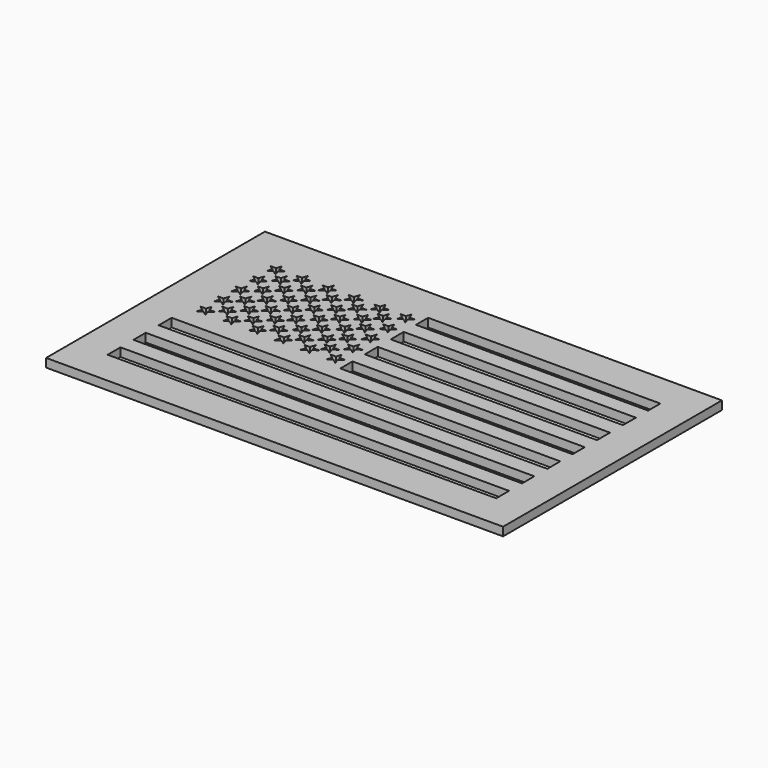
from build123d import *

# Parameters (mm, degrees)
F0_W     = 169.7359979987
F0_H     = 101.6
F0_W_2   = 144.3359979987
F0_H_2   = 6.0225296766
F0_H_3   = 6.0199387372
F0_W_3   = 86.2517495871
F0_H_4   = 6.0199424624
F0_H_5   = 5.6917965412
F0_H_6   = 5.6854970753
F1_DEPTH = 3.175


with BuildPart() as f1:
    # F0 (on Top) → F1 (new body)
    with BuildSketch(Plane.XY):
        with Locations((84.8679989994, 50.8)):
            Rectangle(F0_W, F0_H)
        Polygon((12.7, 48.1244623661), (12.7, 88.9), (70.7842484117, 88.9), (157.0359979987, 88.9), (157.0359979987, 83.2384750247), (157.0359979987, 77.5466784835), (157.0359979987, 71.5267434716), (157.0359979987, 65.5068010092), (157.0359979987, 59.4868659973), (157.0359979987, 53.801368922), (157.0359979987, 48.1244623661), (157.0359979987, 42.4303784966), (157.0359979987, 36.4104434848), (157.0359979987, 30.3905047476), (157.0359979987, 24.6904194355), (157.0359979987, 18.6678897589), (157.0359979987, 12.7), (12.7, 12.7), (12.7, 18.6678897589), (12.7, 24.6904194355), (12.7, 30.3905047476), (12.7, 36.4104434848), (12.7, 42.4303784966), align=None, mode=Mode.SUBTRACT)
        Polygon((70.7842484117, 88.9), (12.7, 88.9), (12.7, 48.1244623661), (70.7842484117, 48.1244623661), (70.7842484117, 53.801368922), (70.7842484117, 59.4868659973), (70.7842484117, 65.5068010092), (70.7842484117, 71.5267434716), (70.7842484117, 77.5466784835), (70.7842484117, 83.2384750247), align=None)
        Polygon((17.5041054734, 55.1749249192), (18.1522244246, 53.1802198928), (20.2495814084, 53.1802198928), (18.5527839653, 51.947424389), (19.2009029165, 49.9527193626), (17.5041054734, 51.1855148665), (15.8073080303, 49.9527193626), (16.4554269815, 51.947424389), (14.7586295384, 53.1802198928), (16.8559865221, 53.1802198928), align=None, mode=Mode.SUBTRACT)
        Polygon((17.5041054734, 63.3029249192), (18.1522244246, 61.3082198928), (20.2495814084, 61.3082198928), (18.5527839653, 60.075424389), (19.2009029165, 58.0807193626), (17.5041054734, 59.3135148665), (15.8073080303, 58.0807193626), (16.4554269815, 60.075424389), (14.7586295384, 61.3082198928), (16.8559865221, 61.3082198928), align=None, mode=Mode.SUBTRACT)
        Polygon((27.1561054734, 55.1749249192), (27.8042244246, 53.1802198928), (29.9015814084, 53.1802198928), (28.2047839653, 51.947424389), (28.8529029165, 49.9527193626), (27.1561054734, 51.1855148665), (25.4593080303, 49.9527193626), (26.1074269815, 51.947424389), (24.4106295384, 53.1802198928), (26.5079865221, 53.1802198928), align=None, mode=Mode.SUBTRACT)
        Polygon((23.1209494405, 57.0659481571), (25.2183064243, 57.0659481571), (23.5215089812, 55.8331526532), (24.1696279324, 53.8384476268), (22.4728304893, 55.0712431307), (20.7760330461, 53.8384476268), (21.4241519974, 55.8331526532), (19.7273545543, 57.0659481571), (21.824711538, 57.0659481571), (22.4728304893, 59.0606531835), align=None, mode=Mode.SUBTRACT)
        Polygon((36.8081054734, 55.1749249192), (37.4562244246, 53.1802198928), (39.5535814084, 53.1802198928), (37.8567839653, 51.947424389), (38.5049029165, 49.9527193626), (36.8081054734, 51.1855148665), (35.1113080303, 49.9527193626), (35.7594269815, 51.947424389), (34.0626295384, 53.1802198928), (36.1599865221, 53.1802198928), align=None, mode=Mode.SUBTRACT)
        Polygon((32.6205494405, 57.0659481571), (34.7179064243, 57.0659481571), (33.0211089812, 55.8331526532), (33.6692279324, 53.8384476268), (31.9724304893, 55.0712431307), (30.2756330461, 53.8384476268), (30.9237519974, 55.8331526532), (29.2269545543, 57.0659481571), (31.324311538, 57.0659481571), (31.9724304893, 59.0606531835), align=None, mode=Mode.SUBTRACT)
        Polygon((42.1201494405, 57.0659481571), (44.2175064243, 57.0659481571), (42.5207089812, 55.8331526532), (43.1688279324, 53.8384476268), (41.4720304893, 55.0712431307), (39.7752330461, 53.8384476268), (40.4233519974, 55.8331526532), (38.7265545543, 57.0659481571), (40.823911538, 57.0659481571), (41.4720304893, 59.0606531835), align=None, mode=Mode.SUBTRACT)
        Polygon((27.1561054734, 63.3029249192), (27.8042244246, 61.3082198928), (29.9015814084, 61.3082198928), (28.2047839653, 60.075424389), (28.8529029165, 58.0807193626), (27.1561054734, 59.3135148665), (25.4593080303, 58.0807193626), (26.1074269815, 60.075424389), (24.4106295384, 61.3082198928), (26.5079865221, 61.3082198928), align=None, mode=Mode.SUBTRACT)
        Polygon((36.8081054734, 63.3029249192), (37.4562244246, 61.3082198928), (39.5535814084, 61.3082198928), (37.8567839653, 60.075424389), (38.5049029165, 58.0807193626), (36.8081054734, 59.3135148665), (35.1113080303, 58.0807193626), (35.7594269815, 60.075424389), (34.0626295384, 61.3082198928), (36.1599865221, 61.3082198928), align=None, mode=Mode.SUBTRACT)
        Polygon((17.5041054734, 71.4309249192), (18.1522244246, 69.4362198928), (20.2495814084, 69.4362198928), (18.5527839653, 68.203424389), (19.2009029165, 66.2087193626), (17.5041054734, 67.4415148665), (15.8073080303, 66.2087193626), (16.4554269815, 68.203424389), (14.7586295384, 69.4362198928), (16.8559865221, 69.4362198928), align=None, mode=Mode.SUBTRACT)
        Polygon((23.1209494405, 65.2701481571), (25.2183064243, 65.2701481571), (23.5215089812, 64.0373526532), (24.1696279324, 62.0426476268), (22.4728304893, 63.2754431307), (20.7760330461, 62.0426476268), (21.4241519974, 64.0373526532), (19.7273545543, 65.2701481571), (21.824711538, 65.2701481571), (22.4728304893, 67.2648531835), align=None, mode=Mode.SUBTRACT)
        Polygon((27.1561054734, 71.4309249192), (27.8042244246, 69.4362198928), (29.9015814084, 69.4362198928), (28.2047839653, 68.203424389), (28.8529029165, 66.2087193626), (27.1561054734, 67.4415148665), (25.4593080303, 66.2087193626), (26.1074269815, 68.203424389), (24.4106295384, 69.4362198928), (26.5079865221, 69.4362198928), align=None, mode=Mode.SUBTRACT)
        Polygon((32.6205494405, 65.2701481571), (34.7179064243, 65.2701481571), (33.0211089812, 64.0373526532), (33.6692279324, 62.0426476268), (31.9724304893, 63.2754431307), (30.2756330461, 62.0426476268), (30.9237519974, 64.0373526532), (29.2269545543, 65.2701481571), (31.324311538, 65.2701481571), (31.9724304893, 67.2648531835), align=None, mode=Mode.SUBTRACT)
        Polygon((42.1201494405, 65.2701481571), (44.2175064243, 65.2701481571), (42.5207089812, 64.0373526532), (43.1688279324, 62.0426476268), (41.4720304893, 63.2754431307), (39.7752330461, 62.0426476268), (40.4233519974, 64.0373526532), (38.7265545543, 65.2701481571), (40.823911538, 65.2701481571), (41.4720304893, 67.2648531835), align=None, mode=Mode.SUBTRACT)
        Polygon((36.8081054734, 71.4309249192), (37.4562244246, 69.4362198928), (39.5535814084, 69.4362198928), (37.8567839653, 68.203424389), (38.5049029165, 66.2087193626), (36.8081054734, 67.4415148665), (35.1113080303, 66.2087193626), (35.7594269815, 68.203424389), (34.0626295384, 69.4362198928), (36.1599865221, 69.4362198928), align=None, mode=Mode.SUBTRACT)
        Polygon((23.1209494405, 73.4743481571), (25.2183064243, 73.4743481571), (23.5215089812, 72.2415526532), (24.1696279324, 70.2468476268), (22.4728304893, 71.4796431307), (20.7760330461, 70.2468476268), (21.4241519974, 72.2415526532), (19.7273545543, 73.4743481571), (21.824711538, 73.4743481571), (22.4728304893, 75.4690531835), align=None, mode=Mode.SUBTRACT)
        Polygon((32.6205494405, 73.4743481571), (34.7179064243, 73.4743481571), (33.0211089812, 72.2415526532), (33.6692279324, 70.2468476268), (31.9724304893, 71.4796431307), (30.2756330461, 70.2468476268), (30.9237519974, 72.2415526532), (29.2269545543, 73.4743481571), (31.324311538, 73.4743481571), (31.9724304893, 75.4690531835), align=None, mode=Mode.SUBTRACT)
        Polygon((42.1201494405, 73.4743481571), (44.2175064243, 73.4743481571), (42.5207089812, 72.2415526532), (43.1688279324, 70.2468476268), (41.4720304893, 71.4796431307), (39.7752330461, 70.2468476268), (40.4233519974, 72.2415526532), (38.7265545543, 73.4743481571), (40.823911538, 73.4743481571), (41.4720304893, 75.4690531835), align=None, mode=Mode.SUBTRACT)
        Polygon((46.4601054734, 55.1749249192), (47.1082244246, 53.1802198928), (49.2055814084, 53.1802198928), (47.5087839653, 51.947424389), (48.1569029165, 49.9527193626), (46.4601054734, 51.1855148665), (44.7633080303, 49.9527193626), (45.4114269815, 51.947424389), (43.7146295384, 53.1802198928), (45.8119865221, 53.1802198928), align=None, mode=Mode.SUBTRACT)
        Polygon((51.6197494405, 57.0659481571), (53.7171064243, 57.0659481571), (52.0203089812, 55.8331526532), (52.6684279324, 53.8384476268), (50.9716304893, 55.0712431307), (49.2748330461, 53.8384476268), (49.9229519974, 55.8331526532), (48.2261545543, 57.0659481571), (50.323511538, 57.0659481571), (50.9716304893, 59.0606531835), align=None, mode=Mode.SUBTRACT)
        Polygon((56.1121054734, 55.1749249192), (56.7602244246, 53.1802198928), (58.8575814084, 53.1802198928), (57.1607839653, 51.947424389), (57.8089029165, 49.9527193626), (56.1121054734, 51.1855148665), (54.4153080303, 49.9527193626), (55.0634269815, 51.947424389), (53.3666295384, 53.1802198928), (55.4639865221, 53.1802198928), align=None, mode=Mode.SUBTRACT)
        Polygon((61.1193494405, 57.0659481571), (63.2167064243, 57.0659481571), (61.5199089812, 55.8331526532), (62.1680279324, 53.8384476268), (60.4712304893, 55.0712431307), (58.7744330461, 53.8384476268), (59.4225519974, 55.8331526532), (57.7257545543, 57.0659481571), (59.823111538, 57.0659481571), (60.4712304893, 59.0606531835), align=None, mode=Mode.SUBTRACT)
        Polygon((46.4601054734, 63.3029249192), (47.1082244246, 61.3082198928), (49.2055814084, 61.3082198928), (47.5087839653, 60.075424389), (48.1569029165, 58.0807193626), (46.4601054734, 59.3135148665), (44.7633080303, 58.0807193626), (45.4114269815, 60.075424389), (43.7146295384, 61.3082198928), (45.8119865221, 61.3082198928), align=None, mode=Mode.SUBTRACT)
        Polygon((56.1121054734, 63.3029249192), (56.7602244246, 61.3082198928), (58.8575814084, 61.3082198928), (57.1607839653, 60.075424389), (57.8089029165, 58.0807193626), (56.1121054734, 59.3135148665), (54.4153080303, 58.0807193626), (55.0634269815, 60.075424389), (53.3666295384, 61.3082198928), (55.4639865221, 61.3082198928), align=None, mode=Mode.SUBTRACT)
        Polygon((65.7641054734, 55.1749249192), (66.4122244246, 53.1802198928), (68.5095814084, 53.1802198928), (66.8127839653, 51.947424389), (67.4609029165, 49.9527193626), (65.7641054734, 51.1855148665), (64.0673080303, 49.9527193626), (64.7154269815, 51.947424389), (63.0186295384, 53.1802198928), (65.1159865221, 53.1802198928), align=None, mode=Mode.SUBTRACT)
        Polygon((65.7641054734, 63.3029249192), (66.4122244246, 61.3082198928), (68.5095814084, 61.3082198928), (66.8127839653, 60.075424389), (67.4609029165, 58.0807193626), (65.7641054734, 59.3135148665), (64.0673080303, 58.0807193626), (64.7154269815, 60.075424389), (63.0186295384, 61.3082198928), (65.1159865221, 61.3082198928), align=None, mode=Mode.SUBTRACT)
        Polygon((51.6197494405, 65.2701481571), (53.7171064243, 65.2701481571), (52.0203089812, 64.0373526532), (52.6684279324, 62.0426476268), (50.9716304893, 63.2754431307), (49.2748330461, 62.0426476268), (49.9229519974, 64.0373526532), (48.2261545543, 65.2701481571), (50.323511538, 65.2701481571), (50.9716304893, 67.2648531835), align=None, mode=Mode.SUBTRACT)
        Polygon((46.4601054734, 71.4309249192), (47.1082244246, 69.4362198928), (49.2055814084, 69.4362198928), (47.5087839653, 68.203424389), (48.1569029165, 66.2087193626), (46.4601054734, 67.4415148665), (44.7633080303, 66.2087193626), (45.4114269815, 68.203424389), (43.7146295384, 69.4362198928), (45.8119865221, 69.4362198928), align=None, mode=Mode.SUBTRACT)
        Polygon((61.1193494405, 65.2701481571), (63.2167064243, 65.2701481571), (61.5199089812, 64.0373526532), (62.1680279324, 62.0426476268), (60.4712304893, 63.2754431307), (58.7744330461, 62.0426476268), (59.4225519974, 64.0373526532), (57.7257545543, 65.2701481571), (59.823111538, 65.2701481571), (60.4712304893, 67.2648531835), align=None, mode=Mode.SUBTRACT)
        Polygon((56.1121054734, 71.4309249192), (56.7602244246, 69.4362198928), (58.8575814084, 69.4362198928), (57.1607839653, 68.203424389), (57.8089029165, 66.2087193626), (56.1121054734, 67.4415148665), (54.4153080303, 66.2087193626), (55.0634269815, 68.203424389), (53.3666295384, 69.4362198928), (55.4639865221, 69.4362198928), align=None, mode=Mode.SUBTRACT)
        Polygon((51.6197494405, 73.4743481571), (53.7171064243, 73.4743481571), (52.0203089812, 72.2415526532), (52.6684279324, 70.2468476268), (50.9716304893, 71.4796431307), (49.2748330461, 70.2468476268), (49.9229519974, 72.2415526532), (48.2261545543, 73.4743481571), (50.323511538, 73.4743481571), (50.9716304893, 75.4690531835), align=None, mode=Mode.SUBTRACT)
        Polygon((61.1193494405, 73.4743481571), (63.2167064243, 73.4743481571), (61.5199089812, 72.2415526532), (62.1680279324, 70.2468476268), (60.4712304893, 71.4796431307), (58.7744330461, 70.2468476268), (59.4225519974, 72.2415526532), (57.7257545543, 73.4743481571), (59.823111538, 73.4743481571), (60.4712304893, 75.4690531835), align=None, mode=Mode.SUBTRACT)
        Polygon((65.7641054734, 71.4309249192), (66.4122244246, 69.4362198928), (68.5095814084, 69.4362198928), (66.8127839653, 68.203424389), (67.4609029165, 66.2087193626), (65.7641054734, 67.4415148665), (64.0673080303, 66.2087193626), (64.7154269815, 68.203424389), (63.0186295384, 69.4362198928), (65.1159865221, 69.4362198928), align=None, mode=Mode.SUBTRACT)
        Polygon((17.5041054734, 79.5589249192), (18.1522244246, 77.5642198928), (20.2495814084, 77.5642198928), (18.5527839653, 76.331424389), (19.2009029165, 74.3367193626), (17.5041054734, 75.5695148665), (15.8073080303, 74.3367193626), (16.4554269815, 76.331424389), (14.7586295384, 77.5642198928), (16.8559865221, 77.5642198928), align=None, mode=Mode.SUBTRACT)
        Polygon((17.5041054734, 87.6869249192), (18.1522244246, 85.6922198928), (20.2495814084, 85.6922198928), (18.5527839653, 84.459424389), (19.2009029165, 82.4647193626), (17.5041054734, 83.6975148665), (15.8073080303, 82.4647193626), (16.4554269815, 84.459424389), (14.7586295384, 85.6922198928), (16.8559865221, 85.6922198928), align=None, mode=Mode.SUBTRACT)
        Polygon((27.1561054734, 79.5589249192), (27.8042244246, 77.5642198928), (29.9015814084, 77.5642198928), (28.2047839653, 76.331424389), (28.8529029165, 74.3367193626), (27.1561054734, 75.5695148665), (25.4593080303, 74.3367193626), (26.1074269815, 76.331424389), (24.4106295384, 77.5642198928), (26.5079865221, 77.5642198928), align=None, mode=Mode.SUBTRACT)
        Polygon((22.4728304893, 83.6732531835), (23.1209494405, 81.6785481571), (25.2183064243, 81.6785481571), (23.5215089812, 80.4457526532), (24.1696279324, 78.4510476268), (22.4728304893, 79.6838431307), (20.7760330461, 78.4510476268), (21.4241519974, 80.4457526532), (19.7273545543, 81.6785481571), (21.824711538, 81.6785481571), align=None, mode=Mode.SUBTRACT)
        Polygon((36.8081054734, 79.5589249192), (37.4562244246, 77.5642198928), (39.5535814084, 77.5642198928), (37.8567839653, 76.331424389), (38.5049029165, 74.3367193626), (36.8081054734, 75.5695148665), (35.1113080303, 74.3367193626), (35.7594269815, 76.331424389), (34.0626295384, 77.5642198928), (36.1599865221, 77.5642198928), align=None, mode=Mode.SUBTRACT)
        Polygon((32.6205494405, 81.6785481571), (34.7179064243, 81.6785481571), (33.0211089812, 80.4457526532), (33.6692279324, 78.4510476268), (31.9724304893, 79.6838431307), (30.2756330461, 78.4510476268), (30.9237519974, 80.4457526532), (29.2269545543, 81.6785481571), (31.324311538, 81.6785481571), (31.9724304893, 83.6732531835), align=None, mode=Mode.SUBTRACT)
        Polygon((42.1201494405, 81.6785481571), (44.2175064243, 81.6785481571), (42.5207089812, 80.4457526532), (43.1688279324, 78.4510476268), (41.4720304893, 79.6838431307), (39.7752330461, 78.4510476268), (40.4233519974, 80.4457526532), (38.7265545543, 81.6785481571), (40.823911538, 81.6785481571), (41.4720304893, 83.6732531835), align=None, mode=Mode.SUBTRACT)
        Polygon((27.1561054734, 87.6869249192), (27.8042244246, 85.6922198928), (29.9015814084, 85.6922198928), (28.2047839653, 84.459424389), (28.8529029165, 82.4647193626), (27.1561054734, 83.6975148665), (25.4593080303, 82.4647193626), (26.1074269815, 84.459424389), (24.4106295384, 85.6922198928), (26.5079865221, 85.6922198928), align=None, mode=Mode.SUBTRACT)
        Polygon((36.8081054734, 87.6869249192), (37.4562244246, 85.6922198928), (39.5535814084, 85.6922198928), (37.8567839653, 84.459424389), (38.5049029165, 82.4647193626), (36.8081054734, 83.6975148665), (35.1113080303, 82.4647193626), (35.7594269815, 84.459424389), (34.0626295384, 85.6922198928), (36.1599865221, 85.6922198928), align=None, mode=Mode.SUBTRACT)
        Polygon((46.4601054734, 79.5589249192), (47.1082244246, 77.5642198928), (49.2055814084, 77.5642198928), (47.5087839653, 76.331424389), (48.1569029165, 74.3367193626), (46.4601054734, 75.5695148665), (44.7633080303, 74.3367193626), (45.4114269815, 76.331424389), (43.7146295384, 77.5642198928), (45.8119865221, 77.5642198928), align=None, mode=Mode.SUBTRACT)
        Polygon((51.6197494405, 81.6785481571), (53.7171064243, 81.6785481571), (52.0203089812, 80.4457526532), (52.6684279324, 78.4510476268), (50.9716304893, 79.6838431307), (49.2748330461, 78.4510476268), (49.9229519974, 80.4457526532), (48.2261545543, 81.6785481571), (50.323511538, 81.6785481571), (50.9716304893, 83.6732531835), align=None, mode=Mode.SUBTRACT)
        Polygon((56.1121054734, 79.5589249192), (56.7602244246, 77.5642198928), (58.8575814084, 77.5642198928), (57.1607839653, 76.331424389), (57.8089029165, 74.3367193626), (56.1121054734, 75.5695148665), (54.4153080303, 74.3367193626), (55.0634269815, 76.331424389), (53.3666295384, 77.5642198928), (55.4639865221, 77.5642198928), align=None, mode=Mode.SUBTRACT)
        Polygon((61.1193494405, 81.6785481571), (63.2167064243, 81.6785481571), (61.5199089812, 80.4457526532), (62.1680279324, 78.4510476268), (60.4712304893, 79.6838431307), (58.7744330461, 78.4510476268), (59.4225519974, 80.4457526532), (57.7257545543, 81.6785481571), (59.823111538, 81.6785481571), (60.4712304893, 83.6732531835), align=None, mode=Mode.SUBTRACT)
        Polygon((46.4601054734, 87.6869249192), (47.1082244246, 85.6922198928), (49.2055814084, 85.6922198928), (47.5087839653, 84.459424389), (48.1569029165, 82.4647193626), (46.4601054734, 83.6975148665), (44.7633080303, 82.4647193626), (45.4114269815, 84.459424389), (43.7146295384, 85.6922198928), (45.8119865221, 85.6922198928), align=None, mode=Mode.SUBTRACT)
        Polygon((56.1121054734, 87.6869249192), (56.7602244246, 85.6922198928), (58.8575814084, 85.6922198928), (57.1607839653, 84.459424389), (57.8089029165, 82.4647193626), (56.1121054734, 83.6975148665), (54.4153080303, 82.4647193626), (55.0634269815, 84.459424389), (53.3666295384, 85.6922198928), (55.4639865221, 85.6922198928), align=None, mode=Mode.SUBTRACT)
        Polygon((65.7641054734, 79.5589249192), (66.4122244246, 77.5642198928), (68.5095814084, 77.5642198928), (66.8127839653, 76.331424389), (67.4609029165, 74.3367193626), (65.7641054734, 75.5695148665), (64.0673080303, 74.3367193626), (64.7154269815, 76.331424389), (63.0186295384, 77.5642198928), (65.1159865221, 77.5642198928), align=None, mode=Mode.SUBTRACT)
        Polygon((65.7641054734, 87.6869249192), (66.4122244246, 85.6922198928), (68.5095814084, 85.6922198928), (66.8127839653, 84.459424389), (67.4609029165, 82.4647193626), (65.7641054734, 83.6975148665), (64.0673080303, 82.4647193626), (64.7154269815, 84.459424389), (63.0186295384, 85.6922198928), (65.1159865221, 85.6922198928), align=None, mode=Mode.SUBTRACT)
        with Locations((84.8679989994, 21.6791545972)):
            Rectangle(F0_W_2, F0_H_2)
        with Locations((84.8679989994, 33.4004741162)):
            Rectangle(F0_W_2, F0_H_3)
        Polygon((70.7842484117, 48.1244623661), (12.7, 48.1244623661), (12.7, 42.4303784966), (157.0359979987, 42.4303784966), (157.0359979987, 48.1244623661), align=None)
        with Locations((113.9101232052, 68.5167722404)):
            Rectangle(F0_W_3, F0_H_4)
        with Locations((113.9101232052, 80.3925767541)):
            Rectangle(F0_W_3, F0_H_5)
        with Locations((113.9101232052, 56.6441174597)):
            Rectangle(F0_W_3, F0_H_6)
    extrude(amount=F1_DEPTH)


solid = f1.part
